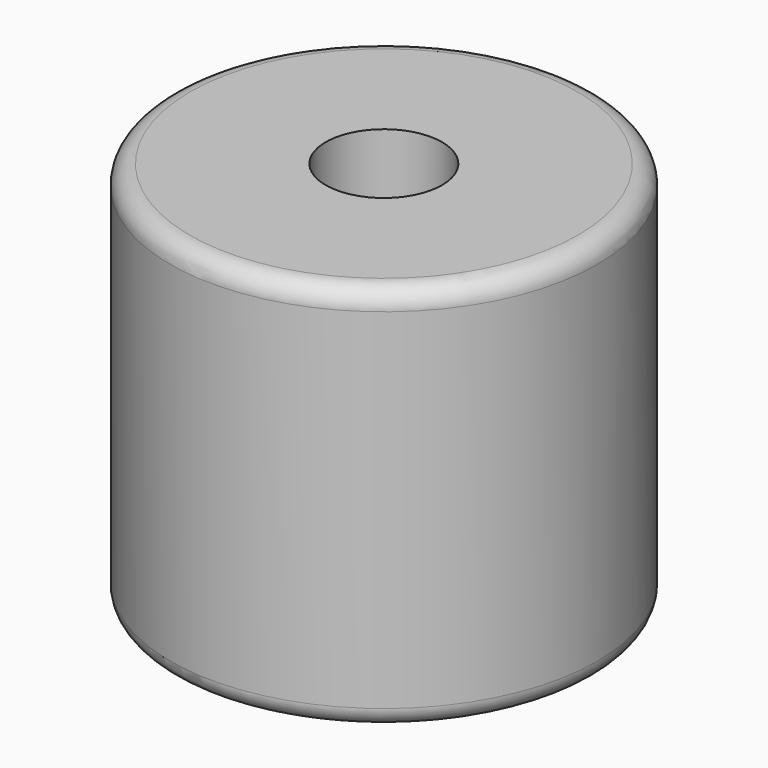
from build123d import *

# Parameters (mm, degrees)
F0_W = 40
F0_H = 100
F2_R = 5


with BuildPart() as f1:
    # F0 (on Front) → F1 (revolve)
    with BuildSketch(Plane.XZ):
        with Locations((35, 0)):
            Rectangle(F0_W, F0_H)
    revolve(axis=Axis((0, 0, 4.696967), (0, 0, -1)))

    # F2
    f2_edges = [f1.edges().sort_by_distance(p)[0] for p in [
        (-55, 0, 50),
        (-55, 0, -50),
    ]]
    fillet(f2_edges, radius=F2_R)


solid = f1.part
